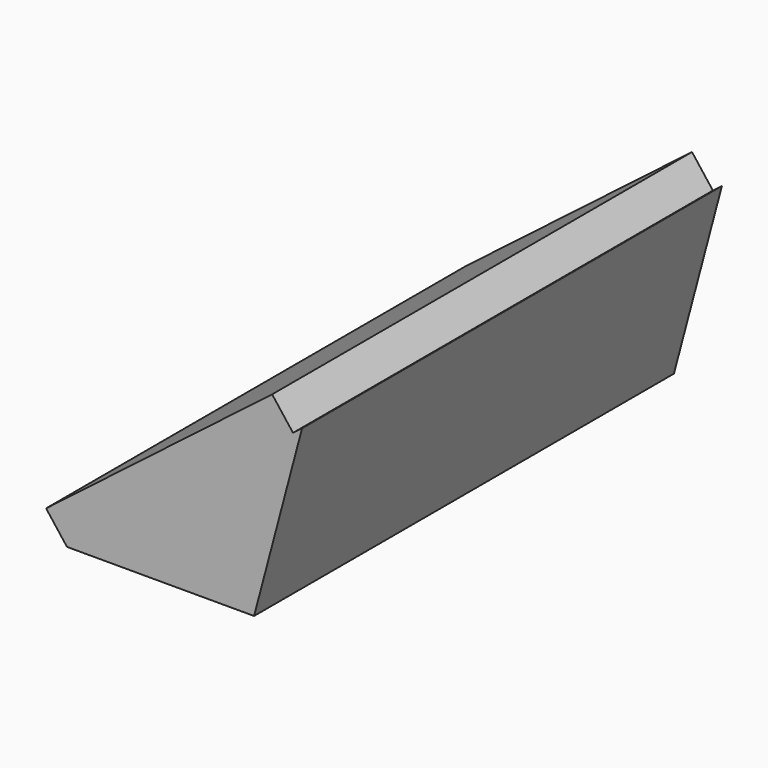
from build123d import *

# Parameters (mm, degrees)
F1_DEPTH = 146.05
F2_W     = 79.375
F2_H     = 146.05
F3_DEPTH = 9.525


with BuildPart() as f1:
    # F0 (on Front) → F1 (new body)
    with BuildSketch(Plane.XZ):
        Polygon((-14.330368, 5.689254), (-79.761478, -44.642369), (-27.687606, -44.642369), align=None)
    extrude(amount=F1_DEPTH)

    # F2 (on face) → F3 (join)
    with BuildSketch(Plane(origin=(-8.076728, 0, 10.499746), x_dir=(0.792624, 0, 0.609711), z_dir=(-0.609711, 0, 0.792624))):
        with Locations((-50.752294, -73.025)):
            Rectangle(F2_W, F2_H)
    extrude(amount=F3_DEPTH)


solid = f1.part
